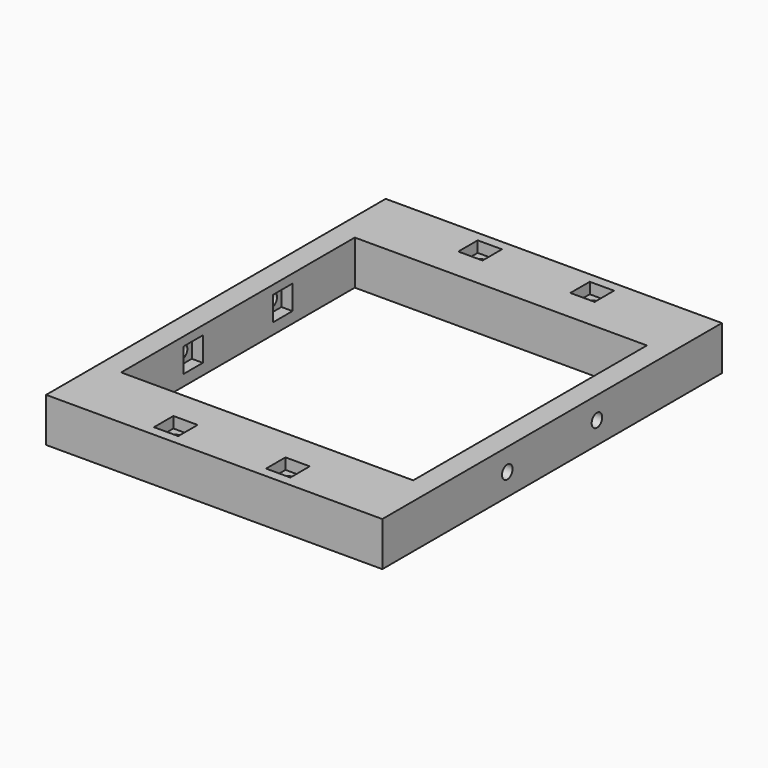
from build123d import *

# Parameters (mm, degrees)
CYLINDER002001_R              = 1.5
CYLINDER002001_DEPTH          = 5
CYLINDER002001_PITCH_ANGLE    = 90
CYLINDER002002_R              = 1.5
CYLINDER002002_DEPTH          = 5
CYLINDER002002_PITCH_ANGLE    = 90
CYLINDER002001001_R           = 1.5
CYLINDER002001001_DEPTH       = 5
CYLINDER002001001_PITCH_ANGLE = 90
CYLINDER_R                    = 1.5
CYLINDER_DEPTH                = 10
CYLINDER002001002_R           = 1.5
CYLINDER002001002_DEPTH       = 10
CYLINDER002001003_R           = 1.5
CYLINDER002001003_DEPTH       = 10
CYLINDER002001002001_R        = 1.5
CYLINDER002001002001_DEPTH    = 10
CYLINDER002_R                 = 1.5
CYLINDER002_DEPTH             = 5
CYLINDER002_PITCH_ANGLE       = 90
BOX003_W                      = 5.5
BOX003_H                      = 2.5
BOX003_DEPTH                  = 5.5
BOX003_PLACEMENT_ANGLE        = -90
BOX004_W                      = 5.5
BOX004_H                      = 2.5
BOX004_DEPTH                  = 5.5
BOX004_PLACEMENT_ANGLE        = -90
BOX005_W                      = 5.5
BOX005_H                      = 2.5
BOX005_DEPTH                  = 5.5
BOX005_PLACEMENT_ANGLE        = -90
BOX006_W                      = 5.5
BOX006_H                      = 2.5
BOX006_DEPTH                  = 5.5
BOX006_ROLL_ANGLE             = 90
BOX007_W                      = 5.5
BOX007_H                      = 2.5
BOX007_DEPTH                  = 5.5
BOX007_ROLL_ANGLE             = 90
BOX006001_W                   = 5.5
BOX006001_H                   = 2.5
BOX006001_DEPTH               = 5.5
BOX006001_ROLL_ANGLE          = 90
BOX007001_W                   = 5.5
BOX007001_H                   = 2.5
BOX007001_DEPTH               = 5.5
BOX007001_ROLL_ANGLE          = 90
BOX002_W                      = 5.5
BOX002_H                      = 2.5
BOX002_DEPTH                  = 5.5
BOX002_PLACEMENT_ANGLE        = -90
BOX001_W                      = 66.199997
BOX001_H                      = 66.199997
BOX001_DEPTH                  = 10
BOX_W                         = 76.199997
BOX_H                         = 96.199997
BOX_DEPTH                     = 10


with BuildPart() as cylinder002001:
    # Cylinder002001 → Cylinder002001 (new body)
    with BuildSketch(Plane.XY):
        Circle(CYLINDER002001_R)
    extrude(amount=CYLINDER002001_DEPTH)


with BuildPart() as cylinder002001_1:
    # Cylinder002001 pitch: moved
    add(cylinder002001.part.rotate(Axis((0, 0, 0), (0, 1, 0)), CYLINDER002001_PITCH_ANGLE))


with BuildPart() as cylinder002001_2:
    # Cylinder002001 placement: moved
    add(cylinder002001_1.part.moved(Location((71.2, 35.4, 5))))


with BuildPart() as cylinder002002:
    # Cylinder002002 → Cylinder002002 (new body)
    with BuildSketch(Plane.XY):
        Circle(CYLINDER002002_R)
    extrude(amount=CYLINDER002002_DEPTH)


with BuildPart() as cylinder002002_1:
    # Cylinder002002 pitch: moved
    add(cylinder002002.part.rotate(Axis((0, 0, 0), (0, 1, 0)), CYLINDER002002_PITCH_ANGLE))


with BuildPart() as cylinder002002_2:
    # Cylinder002002 placement: moved
    add(cylinder002002_1.part.moved(Location((-0.8, 60.8, 5))))


with BuildPart() as cylinder002001001:
    # Cylinder002001001 → Cylinder002001001 (new body)
    with BuildSketch(Plane.XY):
        Circle(CYLINDER002001001_R)
    extrude(amount=CYLINDER002001001_DEPTH)


with BuildPart() as cylinder002001001_1:
    # Cylinder002001001 pitch: moved
    add(cylinder002001001.part.rotate(Axis((0, 0, 0), (0, 1, 0)), CYLINDER002001001_PITCH_ANGLE))


with BuildPart() as cylinder002001001_2:
    # Cylinder002001001 placement: moved
    add(cylinder002001001_1.part.moved(Location((-0.8, 35.4, 5))))


with BuildPart() as cylinder:
    # Cylinder → Cylinder (new body)
    with BuildSketch(Plane(origin=(25.4, 5, 0), x_dir=(1, 0, 0), z_dir=(0, 0, 1))):
        Circle(CYLINDER_R)
    extrude(amount=CYLINDER_DEPTH)


with BuildPart() as cylinder002001002:
    # Cylinder002001002 → Cylinder002001002 (new body)
    with BuildSketch(Plane(origin=(50.8, 5, 0), x_dir=(1, 0, 0), z_dir=(0, 0, 1))):
        Circle(CYLINDER002001002_R)
    extrude(amount=CYLINDER002001002_DEPTH)


with BuildPart() as cylinder002001003:
    # Cylinder002001003 → Cylinder002001003 (new body)
    with BuildSketch(Plane(origin=(25.4, 91.2, 0), x_dir=(1, 0, 0), z_dir=(0, 0, 1))):
        Circle(CYLINDER002001003_R)
    extrude(amount=CYLINDER002001003_DEPTH)


with BuildPart() as cylinder002001002001:
    # Cylinder002001002001 → Cylinder002001002001 (new body)
    with BuildSketch(Plane(origin=(50.8, 91.2, 0), x_dir=(1, 0, 0), z_dir=(0, 0, 1))):
        Circle(CYLINDER002001002001_R)
    extrude(amount=CYLINDER002001002001_DEPTH)


with BuildPart() as cylinder002:
    # Cylinder002 → Cylinder002 (new body)
    with BuildSketch(Plane.XY):
        Circle(CYLINDER002_R)
    extrude(amount=CYLINDER002_DEPTH)


with BuildPart() as cylinder002_1:
    # Cylinder002 pitch: moved
    add(cylinder002.part.rotate(Axis((0, 0, 0), (0, 1, 0)), CYLINDER002_PITCH_ANGLE))


with BuildPart() as cylinder002_2:
    # Cylinder002 placement: moved
    add(cylinder002_1.part.moved(Location((71.2, 60.8, 5))))


with BuildPart() as box003:
    # Box003 → Box003 (new body)
    with BuildSketch(Plane.XY):
        with Locations((2.75, 1.25)):
            Rectangle(BOX003_W, BOX003_H)
    extrude(amount=BOX003_DEPTH)


with BuildPart() as box003_1:
    # Box003 placement: moved
    add(box003.part.moved(Location((71.19, 63.55, 2.5))).rotate(Axis((71.19, 63.55, 2.5), (0, 0, 1)), BOX003_PLACEMENT_ANGLE))


with BuildPart() as box004:
    # Box004 → Box004 (new body)
    with BuildSketch(Plane.XY):
        with Locations((2.75, 1.25)):
            Rectangle(BOX004_W, BOX004_H)
    extrude(amount=BOX004_DEPTH)


with BuildPart() as box004_1:
    # Box004 placement: moved
    add(box004.part.moved(Location((2.5, 63.55, 2.5))).rotate(Axis((2.5, 63.55, 2.5), (0, 0, 1)), BOX004_PLACEMENT_ANGLE))


with BuildPart() as box005:
    # Box005 → Box005 (new body)
    with BuildSketch(Plane.XY):
        with Locations((2.75, 1.25)):
            Rectangle(BOX005_W, BOX005_H)
    extrude(amount=BOX005_DEPTH)


with BuildPart() as box005_1:
    # Box005 placement: moved
    add(box005.part.moved(Location((2.5, 38.15, 2.5))).rotate(Axis((2.5, 38.15, 2.5), (0, 0, 1)), BOX005_PLACEMENT_ANGLE))


with BuildPart() as box006:
    # Box006 → Box006 (new body)
    with BuildSketch(Plane.XY):
        with Locations((2.75, 1.25)):
            Rectangle(BOX006_W, BOX006_H)
    extrude(amount=BOX006_DEPTH)


with BuildPart() as box006_1:
    # Box006 roll: moved
    add(box006.part.rotate(Axis((0, 0, 0), (1, 0, 0)), BOX006_ROLL_ANGLE))


with BuildPart() as box006_2:
    # Box006 placement: moved
    add(box006_1.part.moved(Location((22.65, 7.75, 7.5))))


with BuildPart() as box007:
    # Box007 → Box007 (new body)
    with BuildSketch(Plane.XY):
        with Locations((2.75, 1.25)):
            Rectangle(BOX007_W, BOX007_H)
    extrude(amount=BOX007_DEPTH)


with BuildPart() as box007_1:
    # Box007 roll: moved
    add(box007.part.rotate(Axis((0, 0, 0), (1, 0, 0)), BOX007_ROLL_ANGLE))


with BuildPart() as box007_2:
    # Box007 placement: moved
    add(box007_1.part.moved(Location((48.05, 7.75, 7.5))))


with BuildPart() as box006001:
    # Box006001 → Box006001 (new body)
    with BuildSketch(Plane.XY):
        with Locations((2.75, 1.25)):
            Rectangle(BOX006001_W, BOX006001_H)
    extrude(amount=BOX006001_DEPTH)


with BuildPart() as box006001_1:
    # Box006001 roll: moved
    add(box006001.part.rotate(Axis((0, 0, 0), (1, 0, 0)), BOX006001_ROLL_ANGLE))


with BuildPart() as box006001_2:
    # Box006001 placement: moved
    add(box006001_1.part.moved(Location((22.65, 93.95, 7.5))))


with BuildPart() as box007001:
    # Box007001 → Box007001 (new body)
    with BuildSketch(Plane.XY):
        with Locations((2.75, 1.25)):
            Rectangle(BOX007001_W, BOX007001_H)
    extrude(amount=BOX007001_DEPTH)


with BuildPart() as box007001_1:
    # Box007001 roll: moved
    add(box007001.part.rotate(Axis((0, 0, 0), (1, 0, 0)), BOX007001_ROLL_ANGLE))


with BuildPart() as box007001_2:
    # Box007001 placement: moved
    add(box007001_1.part.moved(Location((48.05, 93.95, 7.5))))


with BuildPart() as box002:
    # Box002 → Box002 (new body)
    with BuildSketch(Plane.XY):
        with Locations((2.75, 1.25)):
            Rectangle(BOX002_W, BOX002_H)
    extrude(amount=BOX002_DEPTH)


with BuildPart() as box002_1:
    # Box002 placement: moved
    add(box002.part.moved(Location((71.19, 38.15, 2.5))).rotate(Axis((71.19, 38.15, 2.5), (0, 0, 1)), BOX002_PLACEMENT_ANGLE))


with BuildPart() as box001:
    # Box001 → Box001 (new body)
    with BuildSketch(Plane(origin=(5, 15, 0), x_dir=(1, 0, 0), z_dir=(0, 0, 1))):
        with Locations((33.099998, 33.099998)):
            Rectangle(BOX001_W, BOX001_H)
    extrude(amount=BOX001_DEPTH)


with BuildPart() as cut016:
    # Box → Box (new body)
    with BuildSketch(Plane.XY):
        with Locations((38.099998, 48.099998)):
            Rectangle(BOX_W, BOX_H)
    extrude(amount=BOX_DEPTH)

    # Cut: cut Box001
    add(box001.part, mode=Mode.SUBTRACT)

    # Cut001: cut Box002
    add(box002_1.part, mode=Mode.SUBTRACT)

    # Cut002: cut Box007001
    add(box007001_2.part, mode=Mode.SUBTRACT)

    # Cut003: cut Box006001
    add(box006001_2.part, mode=Mode.SUBTRACT)

    # Cut004: cut Box007
    add(box007_2.part, mode=Mode.SUBTRACT)

    # Cut005: cut Box006
    add(box006_2.part, mode=Mode.SUBTRACT)

    # Cut006: cut Box005
    add(box005_1.part, mode=Mode.SUBTRACT)

    # Cut007: cut Box004
    add(box004_1.part, mode=Mode.SUBTRACT)

    # Cut008: cut Box003
    add(box003_1.part, mode=Mode.SUBTRACT)

    # Cut009: cut Cylinder002
    add(cylinder002_2.part, mode=Mode.SUBTRACT)

    # Cut010: cut Cylinder002001002001
    add(cylinder002001002001.part, mode=Mode.SUBTRACT)

    # Cut011: cut Cylinder002001003
    add(cylinder002001003.part, mode=Mode.SUBTRACT)

    # Cut012: cut Cylinder002001002
    add(cylinder002001002.part, mode=Mode.SUBTRACT)

    # Cut013: cut Cylinder
    add(cylinder.part, mode=Mode.SUBTRACT)

    # Cut014: cut Cylinder002001001
    add(cylinder002001001_2.part, mode=Mode.SUBTRACT)

    # Cut015: cut Cylinder002002
    add(cylinder002002_2.part, mode=Mode.SUBTRACT)

    # Cut016: cut Cylinder002001
    add(cylinder002001_2.part, mode=Mode.SUBTRACT)


solid = cut016.part
